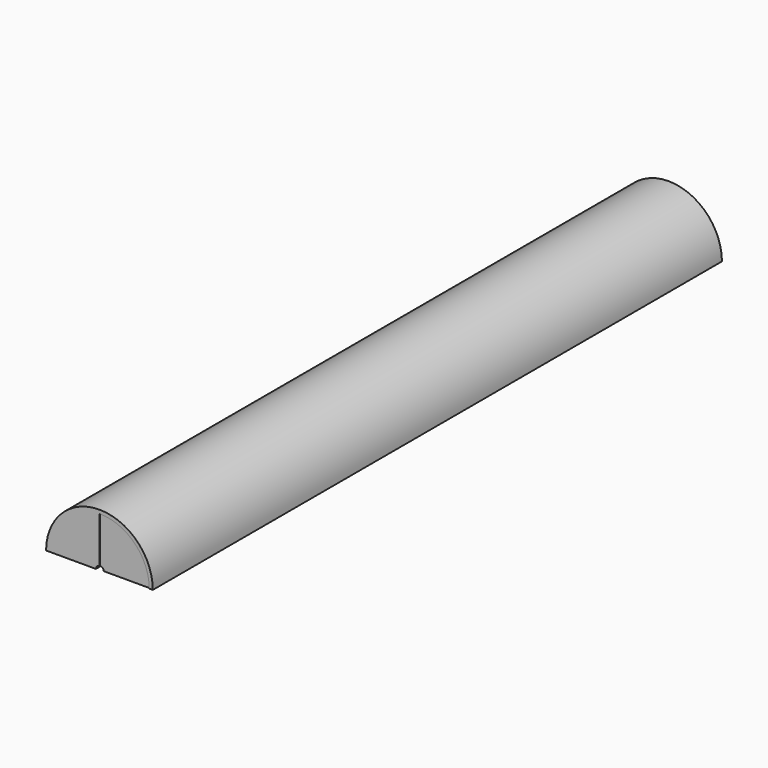
from build123d import *

# Parameters (mm, degrees)
F0_R      = 75
F1_DEPTH  = 1000
F2_R      = 5
F3_DEPTH  = 1000
F5_DEPTH  = 1.2
F8_DEPTH  = 1.2
F26_DEPTH = 1.2
F27_DEPTH = 1.2
F28_DEPTH = 1.2
F29_DEPTH = 1.2
F30_DEPTH = 1.2
F31_DEPTH = 1.2
F32_DEPTH = 1.2
F33_DEPTH = 1.2
F34_W     = 218.629919
F34_H     = 81.904643
F35_DEPTH = 1000


with BuildPart() as f1:
    # F0 (on Front) → F1 (new body)
    with BuildSketch(Plane.XZ):
        Circle(F0_R)
    extrude(amount=-F1_DEPTH)

    # F2 (on Front) → F3 (cut)
    with BuildSketch(Plane.XZ):
        Circle(F2_R)
    extrude(amount=-F3_DEPTH, mode=Mode.SUBTRACT)

    # F4 (on Front) → F5 (cut)
    with BuildSketch(Plane.XZ):
        with BuildLine():
            Line((0, 70), (0, -70))
            ThreePointArc((0, -70), (70, 0), (0, 70))
        make_face()
    extrude(amount=-F5_DEPTH, mode=Mode.SUBTRACT)

    # F7 (on offset) → F8 (cut)
    with BuildSketch(Plane.XZ.offset(-100)):
        with BuildLine():
            Line((0, -70), (0, 70))
            ThreePointArc((0, 70), (-70, 0), (0, -70))
        make_face()
    extrude(amount=-F8_DEPTH, mode=Mode.SUBTRACT)

    # F18 (on offset) → F26 (cut)
    with BuildSketch(Plane.XZ.offset(-200)):
        with BuildLine():
            Line((0, 70), (0, -70))
            ThreePointArc((0, -70), (70, 0), (0, 70))
        make_face()
    extrude(amount=-F26_DEPTH, mode=Mode.SUBTRACT)

    # F19 (on offset) → F27 (cut)
    with BuildSketch(Plane.XZ.offset(-300)):
        with BuildLine():
            Line((0, -70), (0, 70))
            ThreePointArc((0, 70), (-70, 0), (0, -70))
        make_face()
    extrude(amount=-F27_DEPTH, mode=Mode.SUBTRACT)

    # F20 (on offset) → F28 (cut)
    with BuildSketch(Plane.XZ.offset(-400)):
        with BuildLine():
            Line((0, 70), (0, -70))
            ThreePointArc((0, -70), (70, 0), (0, 70))
        make_face()
    extrude(amount=-F28_DEPTH, mode=Mode.SUBTRACT)

    # F21 (on offset) → F29 (cut)
    with BuildSketch(Plane.XZ.offset(-500)):
        with BuildLine():
            Line((0, -70), (0, 70))
            ThreePointArc((0, 70), (-70, 0), (0, -70))
        make_face()
    extrude(amount=-F29_DEPTH, mode=Mode.SUBTRACT)

    # F22 (on offset) → F30 (cut)
    with BuildSketch(Plane.XZ.offset(-600)):
        with BuildLine():
            Line((0, 70), (0, -70))
            ThreePointArc((0, -70), (70, 0), (0, 70))
        make_face()
    extrude(amount=-F30_DEPTH, mode=Mode.SUBTRACT)

    # F23 (on offset) → F31 (cut)
    with BuildSketch(Plane.XZ.offset(-700)):
        with BuildLine():
            Line((0, -70), (0, 70))
            ThreePointArc((0, 70), (-70, 0), (0, -70))
        make_face()
    extrude(amount=-F31_DEPTH, mode=Mode.SUBTRACT)

    # F24 (on offset) → F32 (cut)
    with BuildSketch(Plane.XZ.offset(-800)):
        with BuildLine():
            Line((0, 70), (0, -70))
            ThreePointArc((0, -70), (70, 0), (0, 70))
        make_face()
    extrude(amount=-F32_DEPTH, mode=Mode.SUBTRACT)

    # F25 (on offset) → F33 (cut)
    with BuildSketch(Plane.XZ.offset(-900)):
        with BuildLine():
            Line((0, -70), (0, 70))
            ThreePointArc((0, 70), (-70, 0), (0, -70))
        make_face()
    extrude(amount=-F33_DEPTH, mode=Mode.SUBTRACT)

    # F34 (on Front) → F35 (cut)
    with BuildSketch(Plane.XZ):
        with Locations((-1.260769, -40.952321)):
            Rectangle(F34_W, F34_H)
    extrude(amount=-F35_DEPTH, mode=Mode.SUBTRACT)


solid = f1.part
